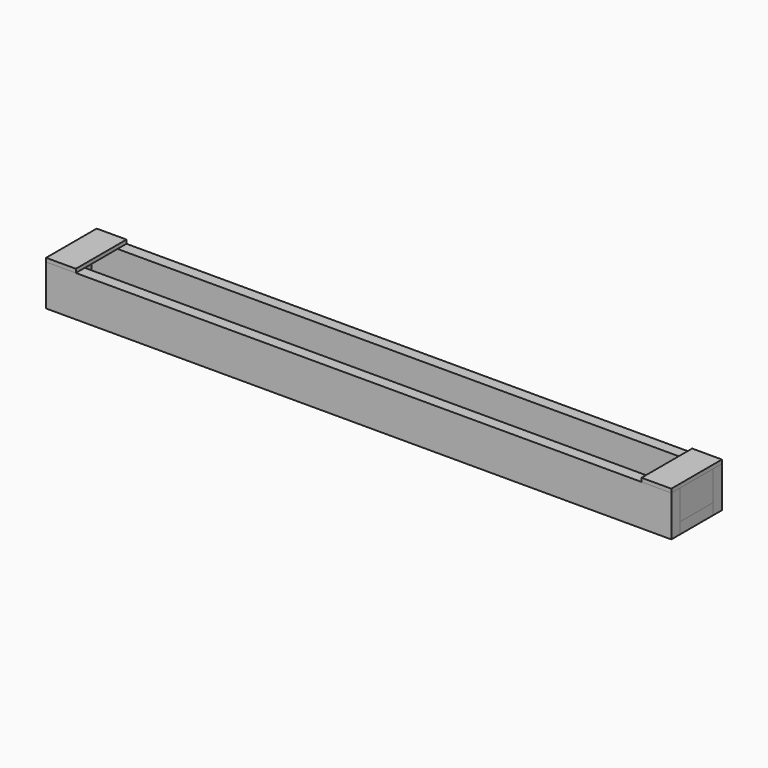
from build123d import *

# Parameters (mm, degrees)
F0_W     = 2133.6
F0_H     = 139.7
F1_DEPTH = 38.1
F2_W     = 38.1
F2_H     = 139.7
F3_DEPTH = 2133.6
F4_W     = 139.7
F4_H     = 101.6
F5_DEPTH = 12.7
F6_W     = 101.6
F6_H     = 215.9
F7_DEPTH = 12.7


with BuildPart() as f1:
    # F0 (on Top) → F1 (new body)
    with BuildSketch(Plane.XY):
        Rectangle(F0_W, F0_H)
    extrude(amount=F1_DEPTH)


with BuildPart() as f3:
    # F2 (on face) → F3 (new body, through all)
    with BuildSketch(Plane.YZ.offset(1066.8)):
        with Locations((88.9, 69.85)):
            Rectangle(F2_W, F2_H)
        with Locations((-88.9, 69.85)):
            Rectangle(F2_W, F2_H)
    extrude(amount=-F3_DEPTH)


with BuildPart() as f5:
    # F4 (on face) → F5 (new body)
    with BuildSketch(Plane.YZ.offset(1066.8)):
        with Locations((0, 88.9)):
            Rectangle(F4_W, F4_H)
    extrude(amount=-F5_DEPTH)


with BuildPart() as f7:
    # F6 (on face) → F7 (new body)
    with BuildSketch(Plane.XY.offset(139.7)):
        with Locations((1016, 0)):
            Rectangle(F6_W, F6_H)
    extrude(amount=F7_DEPTH)


with BuildPart() as f8_1:
    # F8: instance of F7
    add(f7.part.mirror(Plane.YZ))


with BuildPart() as f8_2:
    # F8: instance of F5
    add(f5.part.mirror(Plane.YZ))


solid = Compound([f1.part, f3.part, f5.part, f7.part, f8_1.part, f8_2.part])
